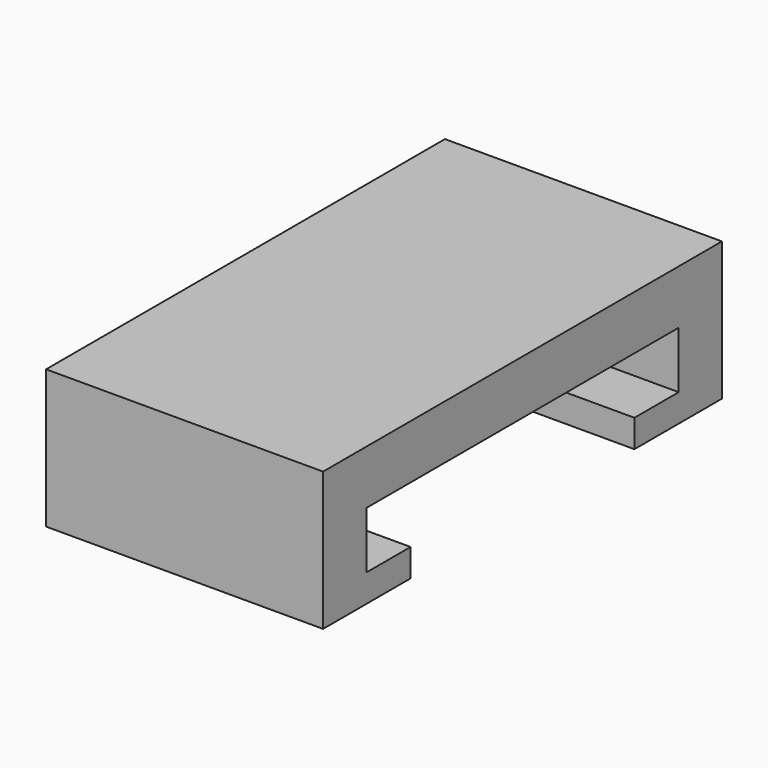
from build123d import *

# Parameters (mm, degrees)
F0_W     = 10
F0_H     = 18
F1_DEPTH = 5
F3_DEPTH = 10.001


with BuildPart() as f1:
    # F0 (on Top) → F1 (new body)
    with BuildSketch(Plane.XY):
        Rectangle(F0_W, F0_H)
    extrude(amount=F1_DEPTH)

    # F2 (on face) → F3 (cut, through all)
    with BuildSketch(Plane.YZ.offset(5)):
        Polygon((-5.05, 1), (-5.05, 0), (5.05, 0), (5.05, 1), (7.05, 1), (7.05, 3.05), (-7.05, 3.05), (-7.05, 1), align=None)
    extrude(amount=-F3_DEPTH, mode=Mode.SUBTRACT)


solid = f1.part
